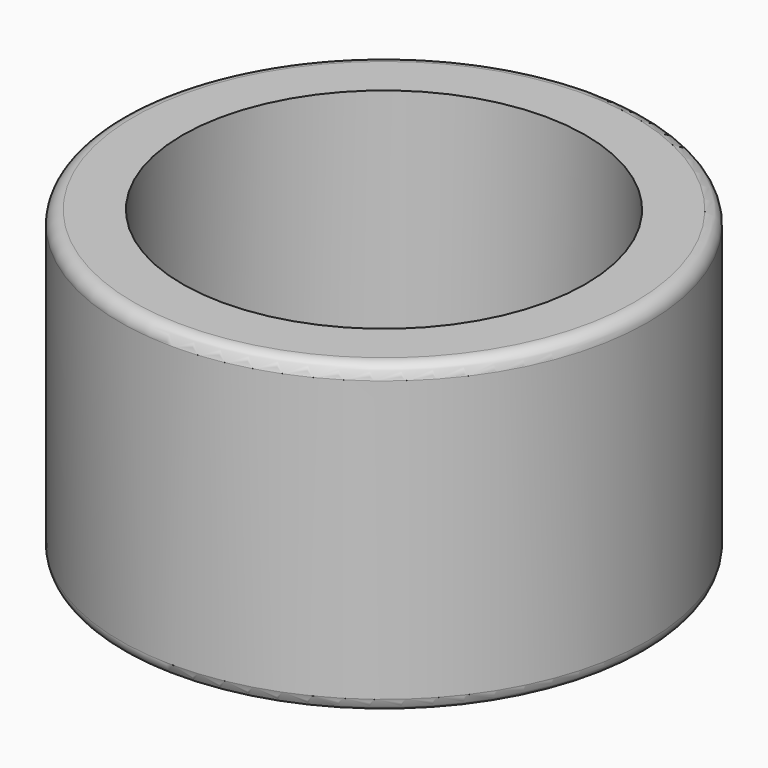
from build123d import *

# Parameters (mm, degrees)
CYLINDER041_R     = 10.5
CYLINDER041_DEPTH = 20
CYLINDER040_R     = 13.75
CYLINDER040_DEPTH = 16
FILLET013_R       = 0.7


with BuildPart() as cylinder041:
    # Cylinder041 → Cylinder041 (new body)
    with BuildSketch(Plane.XY.offset(-1)):
        Circle(CYLINDER041_R)
    extrude(amount=CYLINDER041_DEPTH)


with BuildPart() as obj1:
    # Cylinder040 → Cylinder040 (new body)
    with BuildSketch(Plane.XY):
        Circle(CYLINDER040_R)
    extrude(amount=CYLINDER040_DEPTH)

    # Cut027: cut Cylinder041
    add(cylinder041.part, mode=Mode.SUBTRACT)

    # Fillet013
    fillet013_edges = [obj1.edges().sort_by_distance(p)[0] for p in [
        (-13.75, 0, 16),
        (-13.75, 0, 0),
    ]]
    fillet(fillet013_edges, radius=FILLET013_R)


solid = obj1.part
